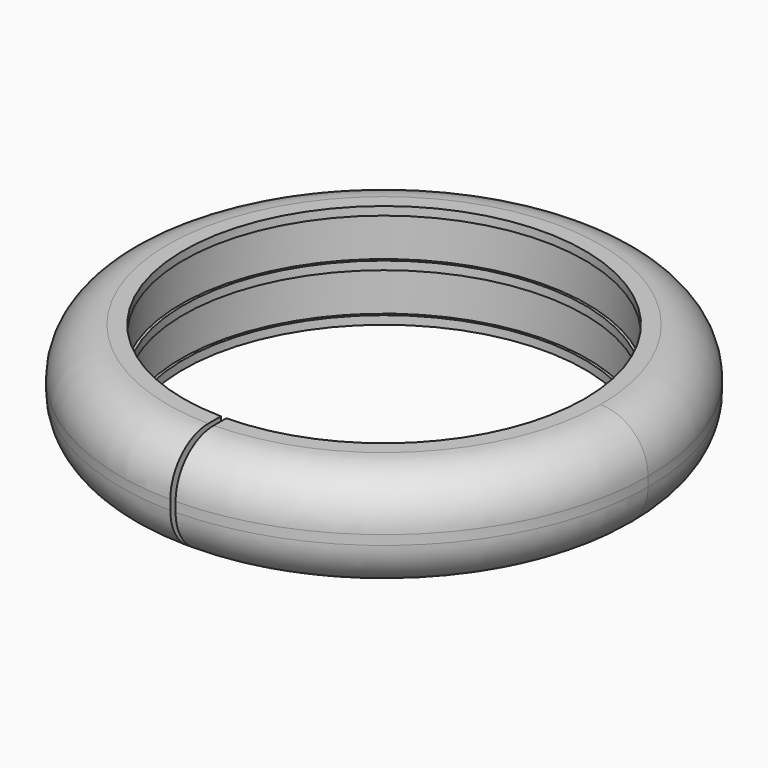
from build123d import *

# Parameters (mm, degrees)
F0_R      = 12.5
F0_R_2    = 9.625
F1_DEPTH  = 4.95
F2_R      = 2.25
F4_R      = 9.625
F4_R_2    = 9.5
F5_DEPTH  = 0.2
F7_R      = 9.625
F7_R_2    = 9.5
F8_DEPTH  = 0.4
F11_DEPTH = 0.4
F12_DEPTH = 25


with BuildPart() as f1:
    # F0 (on Top) → F1 (new body)
    with BuildSketch(Plane.XY):
        Circle(F0_R)
        Circle(F0_R_2, mode=Mode.SUBTRACT)
    extrude(amount=F1_DEPTH)

    # F2
    f2_edges = [f1.edges().sort_by_distance(p)[0] for p in [
        (-12.5, 0, 4.95),
        (-12.5, 0, 0),
    ]]
    fillet(f2_edges, radius=F2_R)

    # F4 (on offset) → F5 (join, symmetric)
    with BuildSketch(Plane.XY.offset(2.475)):
        Circle(F4_R)
        Circle(F4_R_2, mode=Mode.SUBTRACT)
    extrude(amount=F5_DEPTH, both=True)

    # F7 (on offset) → F8 (join)
    with BuildSketch(Plane(origin=(0, 0, 0), x_dir=(1, 0, 0), z_dir=(0, 0, -1))):
        Circle(F7_R)
        Circle(F7_R_2, mode=Mode.SUBTRACT)
    extrude(amount=-F8_DEPTH)

    # F10 (on offset) → F11 (join)
    with BuildSketch(Plane.XY.offset(4.95)):
        with BuildLine():
            ThreePointArc((0.125, -9.499177596), (0, -9.5), (-0.125, -9.499177596))
            Line((-0.125, -9.499177596), (-0.125, -9.6241882775))
            ThreePointArc((-0.125, -9.6241882775), (0, -9.625), (0.125, -9.6241882775))
            Line((0.125, -9.6241882775), (0.125, -9.499177596))
        make_face()
        with BuildLine():
            ThreePointArc((-0.125, -9.499177596), (-6.6731739075, 6.7615641681), (9.5, 0))
            ThreePointArc((9.5, 0), (6.7615641681, -6.6731739075), (0.125, -9.499177596))
            Line((0.125, -9.499177596), (0.125, -9.6241882775))
            ThreePointArc((0.125, -9.6241882775), (6.8499543794, -6.7615641681), (9.625, 0))
            ThreePointArc((9.625, 0), (-6.7615641681, 6.8499543794), (-0.125, -9.6241882775))
            Line((-0.125, -9.6241882775), (-0.125, -9.499177596))
        make_face()
    extrude(amount=-F11_DEPTH)

    # F10 (on offset) → F12 (cut)
    with BuildSketch(Plane.XY.offset(4.95)):
        with BuildLine():
            ThreePointArc((0.125, -9.6241882775), (0, -9.625), (-0.125, -9.6241882775))
            Line((-0.125, -9.6241882775), (-0.125, -12.8121394664))
            Line((-0.125, -12.8121394664), (0.125, -12.8121394664))
            Line((0.125, -12.8121394664), (0.125, -9.6241882775))
        make_face()
        with BuildLine():
            ThreePointArc((0.125, -9.499177596), (0, -9.5), (-0.125, -9.499177596))
            Line((-0.125, -9.499177596), (-0.125, -9.6241882775))
            ThreePointArc((-0.125, -9.6241882775), (0, -9.625), (0.125, -9.6241882775))
            Line((0.125, -9.6241882775), (0.125, -9.499177596))
        make_face()
        with BuildLine():
            Line((-0.125, -8.5825398564), (-0.125, -9.499177596))
            ThreePointArc((-0.125, -9.499177596), (0, -9.5), (0.125, -9.499177596))
            Line((0.125, -9.499177596), (0.125, -8.5825398564))
            Line((0.125, -8.5825398564), (-0.125, -8.5825398564))
        make_face()
    extrude(amount=-F12_DEPTH, mode=Mode.SUBTRACT)


solid = f1.part
